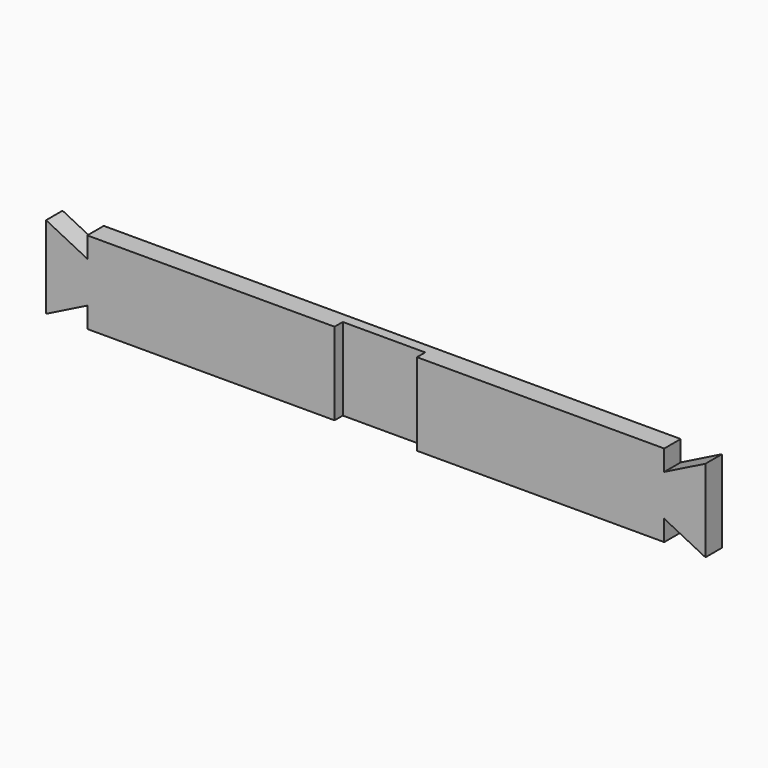
from build123d import *

# Parameters (mm, degrees)
F1_DEPTH = 6.35
F3_DEPTH = 3.175


with BuildPart() as f1:
    # F0 (on Front) → F1 (new body)
    with BuildSketch(Plane.XZ):
        Polygon((-85.428059, -25.659776), (-98.128059, -19.309776), (-98.128059, -44.709776), (-85.428059, -38.359776), (-85.428059, -44.709776), (92.371941, -44.709776), (92.371941, -38.359776), (105.071941, -44.709776), (105.071941, -19.309776), (92.371941, -25.659776), (92.371941, -19.309776), (-85.428059, -19.309776), align=None)
    extrude(amount=F1_DEPTH)

    # F2 (on face) → F3 (cut)
    with BuildSketch(Plane.XZ.offset(6.35)):
        Polygon((16.171941, -19.309776), (-9.228059, -19.309776), (-9.228059, -32.009776), (-9.228059, -44.709776), (16.171941, -44.709776), (16.171941, -32.009776), align=None)
    extrude(amount=-F3_DEPTH, mode=Mode.SUBTRACT)


solid = f1.part
